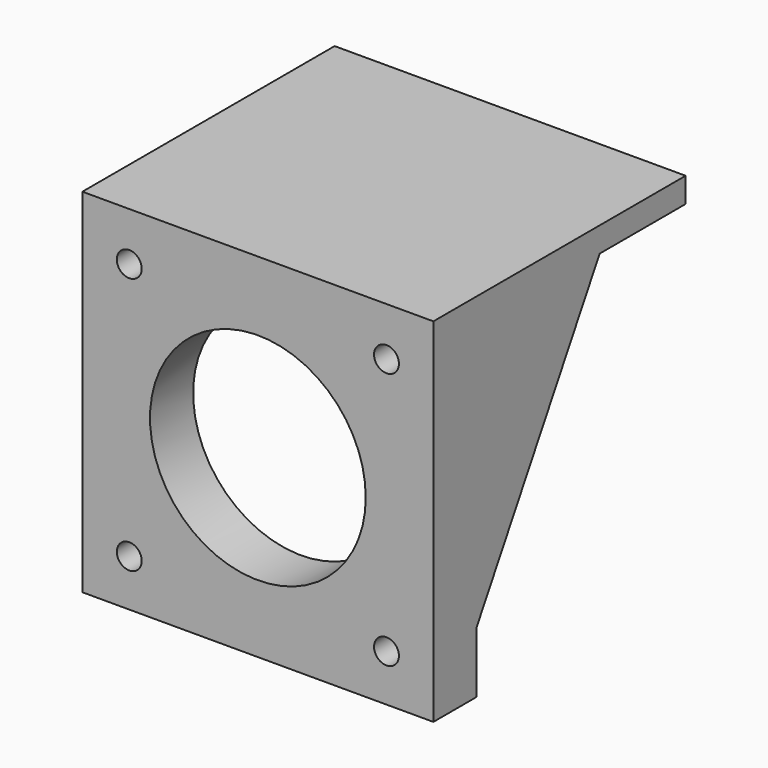
from build123d import *

# Parameters (mm, degrees)
BOX009_W          = 44
BOX009_H          = 24
BOX009_DEPTH      = 70
PRISM001_DEPTH    = 2
BOX008_W          = 42.3
BOX008_H          = 38
BOX008_DEPTH      = 3
CYLINDER005_R     = 13
CYLINDER005_DEPTH = 10
CYLINDER002_R     = 1.5
CYLINDER002_DEPTH = 10
CYLINDER003_R     = 1.5
CYLINDER003_DEPTH = 10
CYLINDER004_R     = 1.5
CYLINDER004_DEPTH = 10
CYLINDER001_R     = 1.5
CYLINDER001_DEPTH = 10
BOX007_W          = 42.3
BOX007_H          = 6.5
BOX007_DEPTH      = 42.3
BOX010_W          = 44
BOX010_H          = 24
BOX010_DEPTH      = 70
PRISM002_DEPTH    = 2


with BuildPart() as cube009:
    # Box009 → Box009 (new body)
    with BuildSketch(Plane(origin=(0, -43, -25.5), x_dir=(1, 0, 0), z_dir=(0, 0, 1))):
        with Locations((22, 12)):
            Rectangle(BOX009_W, BOX009_H)
    extrude(amount=BOX009_DEPTH)


with BuildPart() as cut012:
    # Prism001 → Prism001 (new body)
    with BuildSketch(Plane(origin=(0, -19, 2), x_dir=(0, 0, -1), z_dir=(1, 0, 0))):
        Polygon((23, 0), (-11.5, 19.918584), (-11.5, -19.918584), align=None)
    extrude(amount=PRISM001_DEPTH)

    # Cut012: cut Cube009
    add(cube009.part, mode=Mode.SUBTRACT)


with BuildPart() as cut012_1:
    # Cut012 placement: moved
    add(cut012.part.moved(Location((0, -3, -4))))


with BuildPart() as cube008:
    # Box008 → Box008 (new body)
    with BuildSketch(Plane(origin=(0, -28, 8), x_dir=(1, 0, 0), z_dir=(0, 0, 1))):
        with Locations((21.15, 19)):
            Rectangle(BOX008_W, BOX008_H)
    extrude(amount=BOX008_DEPTH)


with BuildPart() as cylinder005:
    # Cylinder005 → Cylinder005 (new body)
    with BuildSketch(Plane(origin=(21.15, -14, 21.15), x_dir=(1, 0, 0), z_dir=(0, -1, 0))):
        Circle(CYLINDER005_R)
    extrude(amount=CYLINDER005_DEPTH)


with BuildPart() as cylinder002:
    # Cylinder002 → Cylinder002 (new body)
    with BuildSketch(Plane(origin=(5.65, -14, 36.65), x_dir=(1, 0, 0), z_dir=(0, -1, 0))):
        Circle(CYLINDER002_R)
    extrude(amount=CYLINDER002_DEPTH)


with BuildPart() as cylinder003:
    # Cylinder003 → Cylinder003 (new body)
    with BuildSketch(Plane(origin=(36.65, -14, 5.65), x_dir=(1, 0, 0), z_dir=(0, -1, 0))):
        Circle(CYLINDER003_R)
    extrude(amount=CYLINDER003_DEPTH)


with BuildPart() as cylinder004:
    # Cylinder004 → Cylinder004 (new body)
    with BuildSketch(Plane(origin=(36.65, -14, 36.65), x_dir=(1, 0, 0), z_dir=(0, -1, 0))):
        Circle(CYLINDER004_R)
    extrude(amount=CYLINDER004_DEPTH)


with BuildPart() as cylinder001:
    # Cylinder001 → Cylinder001 (new body)
    with BuildSketch(Plane(origin=(5.65, -14, 5.65), x_dir=(1, 0, 0), z_dir=(0, -1, 0))):
        Circle(CYLINDER001_R)
    extrude(amount=CYLINDER001_DEPTH)


with BuildPart() as fusion002:
    # Box007 → Box007 (new body)
    with BuildSketch(Plane(origin=(0, -21, 0), x_dir=(1, 0, 0), z_dir=(0, 0, 1))):
        with Locations((21.15, 3.25)):
            Rectangle(BOX007_W, BOX007_H)
    extrude(amount=BOX007_DEPTH)

    # Cut007: cut Cylinder001
    add(cylinder001.part, mode=Mode.SUBTRACT)

    # Cut008: cut Cylinder004
    add(cylinder004.part, mode=Mode.SUBTRACT)

    # Cut009: cut Cylinder003
    add(cylinder003.part, mode=Mode.SUBTRACT)

    # Cut010: cut Cylinder002
    add(cylinder002.part, mode=Mode.SUBTRACT)

    # Cut011: cut Cylinder005
    add(cylinder005.part, mode=Mode.SUBTRACT)


with BuildPart() as fusion002_1:
    # Cut011 placement: moved
    add(fusion002.part.moved(Location((0, -7, -31.5))))

    # Fusion001: union Cube008
    add(cube008.part)

    # Fusion002: union Cut012
    add(cut012_1.part)


with BuildPart() as cube010:
    # Box010 → Box010 (new body)
    with BuildSketch(Plane(origin=(0, -43, -25.5), x_dir=(1, 0, 0), z_dir=(0, 0, 1))):
        with Locations((22, 12)):
            Rectangle(BOX010_W, BOX010_H)
    extrude(amount=BOX010_DEPTH)


with BuildPart() as obj1:
    # Prism002 → Prism002 (new body)
    with BuildSketch(Plane(origin=(0, -19, 2), x_dir=(0, 0, -1), z_dir=(1, 0, 0))):
        Polygon((23, 0), (-11.5, 19.918584), (-11.5, -19.918584), align=None)
    extrude(amount=PRISM002_DEPTH)

    # Cut013: cut Cube010
    add(cube010.part, mode=Mode.SUBTRACT)


with BuildPart() as obj1_1:
    # Cut013 placement: moved
    add(obj1.part.moved(Location((40.3, -3, -4))))

    # Fusion003: union Fusion002
    add(fusion002_1.part)


solid = obj1_1.part
